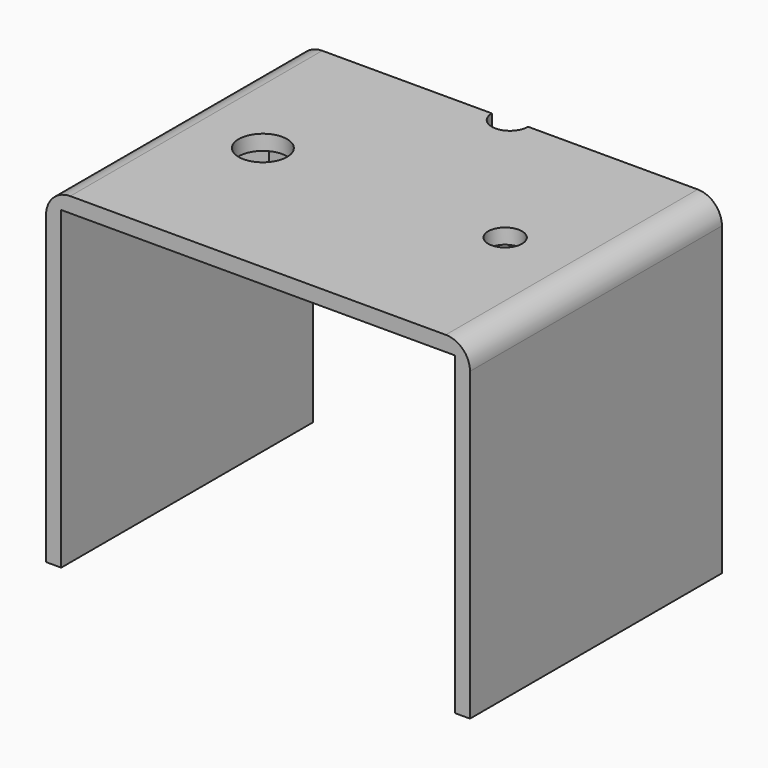
from build123d import *

# Parameters (mm, degrees)
F0_W     = 3.175
F0_H     = 66.04
F1_DEPTH = 3.175
F2_DEPTH = 66.04
F3_R     = 5.08
F4_W     = 70.348228
F4_H     = 17.78
F5_DEPTH = 3.175
F4_R     = 5.08
F4_R_2   = 3.556
F6_DEPTH = 25.4
F7_R     = 0.508


with BuildPart() as f1:
    # F0 (on Top) → F1 (new body)
    with BuildSketch(Plane.XY):
        with Locations((42.8625, 0)):
            Rectangle(F0_W, F0_H)
        with Locations((-42.8625, 0)):
            Rectangle(F0_W, F0_H)
        with BuildLine():
            Line((41.275, -33.02), (41.275, 33.02))
            Line((41.275, 33.02), (3.81, 33.02))
            ThreePointArc((3.81, 33.02), (0, 29.21), (-3.81, 33.02))
            Line((-3.81, 33.02), (-41.275, 33.02))
            Line((-41.275, 33.02), (-41.275, -33.02))
            Line((-41.275, -33.02), (41.275, -33.02))
        make_face()
    extrude(amount=F1_DEPTH)

    # F0 (on Top) → F2 (join)
    with BuildSketch(Plane.XY):
        with Locations((-42.8625, 0)):
            Rectangle(F0_W, F0_H)
        with Locations((42.8625, 0)):
            Rectangle(F0_W, F0_H)
    extrude(amount=-F2_DEPTH)

    # F3
    f3_edges = [f1.edges().sort_by_distance(p)[0] for p in [
        (-44.45, 0, 3.175),
        (44.45, 0, 3.175),
    ]]
    fillet(f3_edges, radius=F3_R)

    # F4 (on face) → F5 (join)
    with BuildSketch(Plane(origin=(0, 0, 0), x_dir=(1, 0, 0), z_dir=(0, 0, -1))):
        Rectangle(F4_W, F4_H)
        Polygon((-18.800886, 0), (-22.100443, -5.715), (-28.699557, -5.715), (-31.999114, 0), (-28.699557, 5.715), (-22.100443, 5.715), align=None, mode=Mode.SUBTRACT)
        Polygon((30.23935, 0), (27.819675, -4.191), (22.980325, -4.191), (20.56065, 0), (22.980325, 4.191), (27.819675, 4.191), align=None, mode=Mode.SUBTRACT)
    extrude(amount=F5_DEPTH)

    # F4 (on face) → F6 (cut)
    with BuildSketch(Plane(origin=(0, 0, 0), x_dir=(1, 0, 0), z_dir=(0, 0, -1))):
        with Locations((-25.4, 0)):
            Circle(F4_R)
        with Locations((25.4, 0)):
            Circle(F4_R_2)
    extrude(amount=-F6_DEPTH, mode=Mode.SUBTRACT)

    # F7
    f7_edges = [f1.edges().sort_by_distance(p)[0] for p in [
        (35.174114, 0, -3.175),
        (0, -8.89, -3.175),
        (-35.174114, 0, -3.175),
        (0, 8.89, -3.175),
        (-20.450665, 2.8575, -3.175),
        (-25.4, 5.715, -3.175),
        (-30.349335, 2.8575, -3.175),
        (-30.349335, -2.8575, -3.175),
        (-25.4, -5.715, -3.175),
        (-20.450665, -2.8575, -3.175),
        (29.029512, -2.0955, -3.175),
        (29.029512, 2.0955, -3.175),
        (25.4, 4.191, -3.175),
        (21.770488, 2.0955, -3.175),
        (21.770488, -2.0955, -3.175),
        (25.4, -4.191, -3.175),
    ]]
    fillet(f7_edges, radius=F7_R)


solid = f1.part
